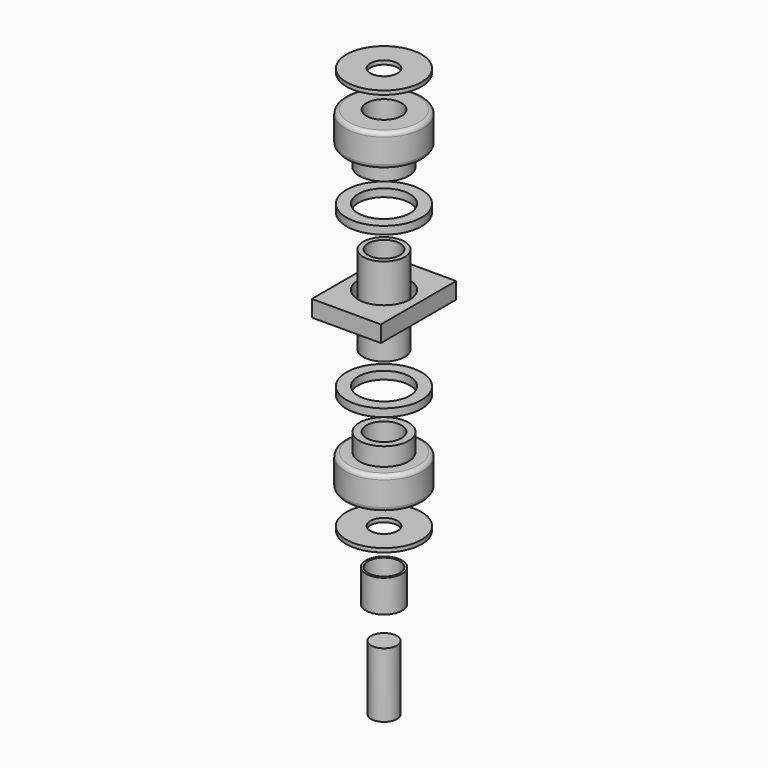
from build123d import *

# Parameters (mm, degrees)
F0_R      = 10
F1_DEPTH  = 50
F3_R      = 14
F3_R_2    = 12.303125
F4_DEPTH  = 25
F6_R      = 29
F6_R_2    = 10.5
F7_DEPTH  = 3
F9_R      = 30
F9_R_2    = 13.5
F10_DEPTH = 25
F11_R     = 19
F11_R_2   = 13.5
F12_DEPTH = 14
F14_R     = 29
F14_R_2   = 20
F15_DEPTH = 6
F17_R     = 16
F17_R_2   = 12.303125
F18_DEPTH = 68
F22_R     = 3.175
F24_W     = 53.3133037388
F24_H     = 72.545491159
F24_R     = 20
F25_DEPTH = 6.35


with BuildPart() as f1:
    # F0 (on Top) → F1 (new body)
    with BuildSketch(Plane.XY):
        Circle(F0_R)
    extrude(amount=F1_DEPTH)


with BuildPart() as f4:
    # F3 (on offset) → F4 (new body)
    with BuildSketch(Plane.XY.offset(75)):
        Circle(F3_R)
        Circle(F3_R_2, mode=Mode.SUBTRACT)
    extrude(amount=F4_DEPTH)


with BuildPart() as f7:
    # F6 (on offset) → F7 (new body)
    with BuildSketch(Plane.XY.offset(125)):
        Circle(F6_R)
        Circle(F6_R_2, mode=Mode.SUBTRACT)
    extrude(amount=F7_DEPTH)


with BuildPart() as f10:
    # F9 (on offset) → F10 (new body)
    with BuildSketch(Plane.XY.offset(153)):
        Circle(F9_R)
        Circle(F9_R_2, mode=Mode.SUBTRACT)
    extrude(amount=F10_DEPTH)

    # F11 (on face) → F12 (join)
    with BuildSketch(Plane.XY.offset(178)):
        Circle(F11_R)
        Circle(F11_R_2, mode=Mode.SUBTRACT)
    extrude(amount=F12_DEPTH)

    # F22
    f22_edges = [f10.edges().sort_by_distance(p)[0] for p in [
        (-30, 0, 178),
        (-30, 0, 153),
    ]]
    fillet(f22_edges, radius=F22_R)


with BuildPart() as f15:
    # F14 (on offset) → F15 (new body)
    with BuildSketch(Plane.XY.offset(217)):
        Circle(F14_R)
        Circle(F14_R_2, mode=Mode.SUBTRACT)
    extrude(amount=F15_DEPTH)


with BuildPart() as f18:
    # F17 (on offset) → F18 (new body)
    with BuildSketch(Plane.XY.offset(248)):
        Circle(F17_R)
        Circle(F17_R_2, mode=Mode.SUBTRACT)
    extrude(amount=F18_DEPTH)


with BuildPart() as f20_1:
    # F20: copy of F15
    add(f15.part.moved(Location((0, 0, 124))))


with BuildPart() as f23_1:
    # F23: instance of F10
    add(f10.part.mirror(Plane.XY.offset(282)))


with BuildPart() as f23_2:
    # F23: instance of F7
    add(f7.part.mirror(Plane.XY.offset(282)))


with BuildPart() as f25:
    # F24 (on offset) → F25 (new body, symmetric)
    with BuildSketch(Plane.XY.offset(282)):
        Rectangle(F24_W, F24_H)
        Circle(F24_R, mode=Mode.SUBTRACT)
    extrude(amount=F25_DEPTH, both=True)


solid = Compound([f1.part, f4.part, f7.part, f10.part, f15.part, f18.part, f20_1.part, f23_1.part, f23_2.part, f25.part])
